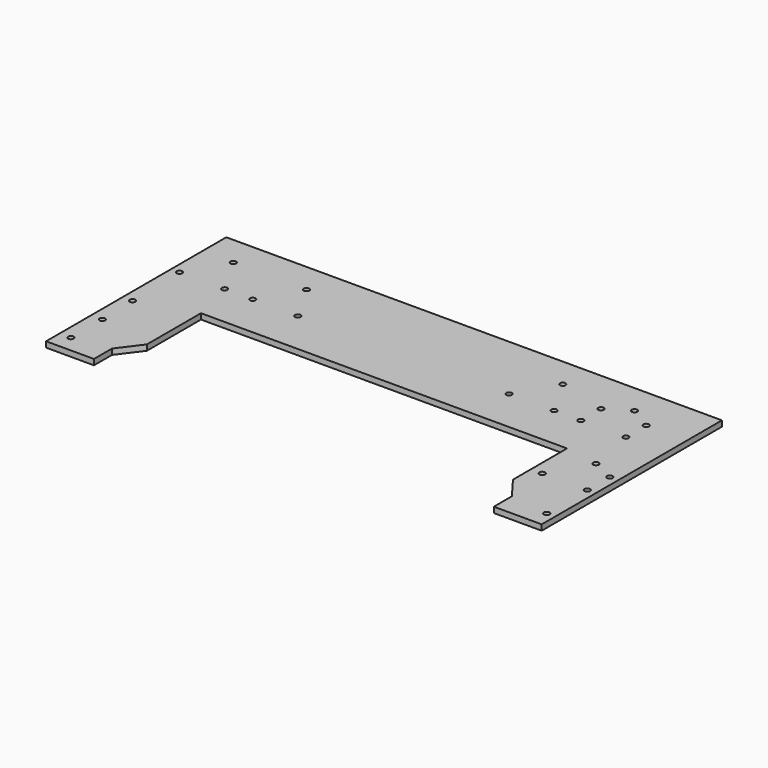
from build123d import *

# Parameters (mm, degrees)
F0_R     = 3.175
F1_DEPTH = 6.35


with BuildPart() as f1:
    # F0 (on Top) → F1 (new body)
    with BuildSketch(Plane.XY):
        Polygon((0, 254), (0, 0), (53.975, 0), (53.975, 25.4), (73.025, 50.8), (73.025, 127), (485.775, 127), (485.775, 50.8), (504.825, 25.4), (504.825, 0), (558.8, 0), (558.8, 254), align=None)
        with Locations((12.7, 19.05)):
            Circle(F0_R, mode=Mode.SUBTRACT)
        with Locations((12.7, 63.5)):
            Circle(F0_R, mode=Mode.SUBTRACT)
        with Locations((11.1125, 107.95)):
            Circle(F0_R, mode=Mode.SUBTRACT)
        with Locations((549.275, 19.05)):
            Circle(F0_R, mode=Mode.SUBTRACT)
        with Locations((498.475, 76.2)):
            Circle(F0_R, mode=Mode.SUBTRACT)
        with Locations((549.275, 76.2)):
            Circle(F0_R, mode=Mode.SUBTRACT)
        with Locations((549.275, 107.95)):
            Circle(F0_R, mode=Mode.SUBTRACT)
        with Locations((523.875, 120.194091)):
            Circle(F0_R, mode=Mode.SUBTRACT)
        with Locations((9.525, 176.2125)):
            Circle(F0_R, mode=Mode.SUBTRACT)
        with Locations((60.325, 176.2125)):
            Circle(F0_R, mode=Mode.SUBTRACT)
        with Locations((92.075, 176.2125)):
            Circle(F0_R, mode=Mode.SUBTRACT)
        with Locations((142.875, 176.2125)):
            Circle(F0_R, mode=Mode.SUBTRACT)
        with Locations((34.925, 220.206591)):
            Circle(F0_R, mode=Mode.SUBTRACT)
        with Locations((117.475, 220.206591)):
            Circle(F0_R, mode=Mode.SUBTRACT)
        with Locations((381, 176.2125)):
            Circle(F0_R, mode=Mode.SUBTRACT)
        with Locations((431.8, 176.2125)):
            Circle(F0_R, mode=Mode.SUBTRACT)
        with Locations((461.9625, 176.2125)):
            Circle(F0_R, mode=Mode.SUBTRACT)
        with Locations((512.7625, 176.2125)):
            Circle(F0_R, mode=Mode.SUBTRACT)
        with Locations((406.4, 220.206591)):
            Circle(F0_R, mode=Mode.SUBTRACT)
        with Locations((461.9625, 204.7875)):
            Circle(F0_R, mode=Mode.SUBTRACT)
        with Locations((487.3625, 220.206591)):
            Circle(F0_R, mode=Mode.SUBTRACT)
        with Locations((512.7625, 204.7875)):
            Circle(F0_R, mode=Mode.SUBTRACT)
    extrude(amount=F1_DEPTH)


solid = f1.part
